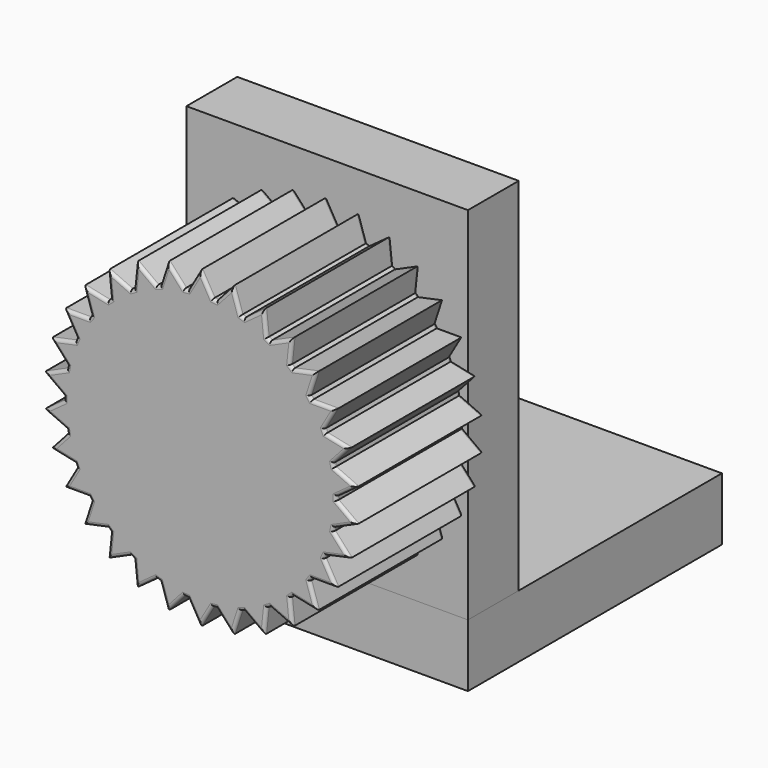
from build123d import *

# Parameters (mm, degrees)
F0_R     = 7.5
F1_DEPTH = 25
F2_DEPTH = 25
F3_R     = 0.5
F4_R     = 0.5
F5_W     = 44.334772
F5_H     = 9.879325
F6_DEPTH = 50
F5_H_2   = 56.810932
F5_R     = 7.5
F7_DEPTH = 10


with BuildPart() as f1:
    # F0 (on Front) → F1 (new body)
    with BuildSketch(Plane.XZ):
        Polygon((0, 24.73412), (-1.944524, 21.366106), (-2.540232, 21.303494), (-5.142513, 24.19362), (-6.344295, 20.494916), (-6.913967, 20.309818), (-10.060273, 22.595743), (-10.466789, 18.728), (-10.985529, 18.428505), (-14.538351, 20.010323), (-14.131835, 16.14258), (-14.57697, 15.741778), (-18.381033, 16.550357), (-17.179251, 12.851652), (-17.531328, 12.36706), (-21.420376, 12.36706), (-19.475852, 8.999046), (-19.719483, 8.451842), (-23.523546, 7.643263), (-20.921265, 4.753138), (-21.045802, 4.167238), (-24.598624, 2.58542), (-21.452318, 0.299495), (-21.452318, -0.299495), (-24.598624, -2.58542), (-21.045802, -4.167238), (-20.921265, -4.753138), (-23.523546, -7.643263), (-19.719483, -8.451842), (-19.475852, -8.999046), (-21.420376, -12.36706), (-17.531328, -12.36706), (-17.179251, -12.851652), (-18.381033, -16.550357), (-14.57697, -15.741778), (-14.131835, -16.14258), (-14.538351, -20.010323), (-10.985529, -18.428505), (-10.466789, -18.728), (-10.060273, -22.595743), (-6.913967, -20.309818), (-6.344295, -20.494916), (-5.142513, -24.19362), (-2.540232, -21.303494), (-1.944524, -21.366106), (0, -24.73412), (1.944524, -21.366106), (2.540232, -21.303494), (5.142513, -24.19362), (6.344295, -20.494916), (6.913967, -20.309818), (10.060273, -22.595743), (10.466789, -18.728), (10.985529, -18.428505), (14.538351, -20.010323), (14.131835, -16.14258), (14.57697, -15.741778), (18.381033, -16.550357), (17.179251, -12.851652), (17.531328, -12.36706), (21.420376, -12.36706), (19.475852, -8.999046), (19.719483, -8.451842), (23.523546, -7.643263), (20.921265, -4.753138), (21.045802, -4.167238), (24.598624, -2.58542), (21.452318, -0.299495), (21.452318, 0.299495), (24.598624, 2.58542), (21.045802, 4.167238), (20.921265, 4.753138), (23.523546, 7.643263), (19.719483, 8.451842), (19.475852, 8.999046), (21.420376, 12.36706), (17.531328, 12.36706), (17.179251, 12.851652), (18.381033, 16.550357), (14.57697, 15.741778), (14.131835, 16.14258), (14.538351, 20.010323), (10.985529, 18.428505), (10.466789, 18.728), (10.060273, 22.595743), (6.913967, 20.309818), (6.344295, 20.494916), (5.142513, 24.19362), (2.540232, 21.303494), (1.944524, 21.366106), align=None)
        Circle(F0_R, mode=Mode.SUBTRACT)
    extrude(amount=F1_DEPTH)

    # F0 (on Front) → F2 (join, symmetric)
    with BuildSketch(Plane.XZ):
        Circle(F0_R)
    extrude(amount=F2_DEPTH, both=True)

    # F3
    f3_edges = [f1.edges().sort_by_distance(p)[0] for p in [
        (20.448114, -25, 10.683053),
        (19.475852, -25, 12.36706),
        (17.35529, -25, 12.609356),
        (17.780142, -25, 14.701005),
        (16.479002, -25, 16.146067),
        (14.354403, -25, 15.942179),
        (14.335093, -25, 18.076452),
        (12.76194, -25, 19.219414),
        (10.726159, -25, 18.578252),
        (10.263531, -25, 20.661871),
        (8.48712, -25, 21.45278),
        (6.629131, -25, 20.402367),
        (5.743404, -25, 22.344268),
        (3.841372, -25, 22.748557),
        (2.242378, -25, 21.3348),
        (0.972262, -25, 23.050113),
        (-0.972262, -25, 23.050113),
        (-2.242378, -25, 21.3348),
        (-3.841372, -25, 22.748557),
        (-5.743404, -25, 22.344268),
        (-6.629131, -25, 20.402367),
        (-8.48712, -25, 21.45278),
        (-10.263531, -25, 20.661871),
        (-10.726159, -25, 18.578252),
        (-12.76194, -25, 19.219414),
        (-14.335093, -25, 18.076452),
        (-14.354403, -25, 15.942179),
        (-16.479002, -25, 16.146067),
        (-17.780142, -25, 14.701005),
        (-17.35529, -25, 12.609356),
        (-19.475852, -25, 12.36706),
        (-20.448114, -25, 10.683053),
        (-19.597668, -25, 8.725444),
        (-21.621515, -25, 8.047553),
        (-22.222406, -25, 6.198201),
        (-20.983533, -25, 4.460188),
        (-22.822213, -25, 3.376329),
        (-23.025471, -25, 1.442457),
        (-21.452318, -25, 0),
        (-23.025471, -25, -1.442457),
        (-22.822213, -25, -3.376329),
        (-20.983533, -25, -4.460188),
        (-22.222406, -25, -6.198201),
        (-21.621515, -25, -8.047553),
        (-19.597668, -25, -8.725444),
        (-20.448114, -25, -10.683053),
        (-19.475852, -25, -12.36706),
        (-17.35529, -25, -12.609356),
        (-17.780142, -25, -14.701005),
        (-16.479002, -25, -16.146067),
        (-14.354403, -25, -15.942179),
        (-14.335093, -25, -18.076452),
        (-12.76194, -25, -19.219414),
        (-10.726159, -25, -18.578252),
        (-10.263531, -25, -20.661871),
        (-8.48712, -25, -21.45278),
        (-6.629131, -25, -20.402367),
        (-5.743404, -25, -22.344268),
        (-3.841372, -25, -22.748557),
        (-2.242378, -25, -21.3348),
        (-0.972262, -25, -23.050113),
        (0.972262, -25, -23.050113),
        (2.242378, -25, -21.3348),
        (3.841372, -25, -22.748557),
        (5.743404, -25, -22.344268),
        (6.629131, -25, -20.402367),
        (8.48712, -25, -21.45278),
        (10.263531, -25, -20.661871),
        (10.726159, -25, -18.578252),
        (12.76194, -25, -19.219414),
        (14.335093, -25, -18.076452),
        (14.354403, -25, -15.942179),
        (16.479002, -25, -16.146067),
        (17.780142, -25, -14.701005),
        (17.35529, -25, -12.609356),
        (19.475852, -25, -12.36706),
        (20.448114, -25, -10.683053),
        (19.597668, -25, -8.725444),
        (21.621515, -25, -8.047553),
        (22.222406, -25, -6.198201),
        (20.983533, -25, -4.460188),
        (22.822213, -25, -3.376329),
        (23.025471, -25, -1.442457),
        (21.452318, -25, 0),
        (23.025471, -25, 1.442457),
        (22.822213, -25, 3.376329),
        (20.983533, -25, 4.460188),
        (22.222406, -25, 6.198201),
        (21.621515, -25, 8.047553),
        (19.597668, -25, 8.725444),
    ]]
    fillet(f3_edges, radius=F3_R)

    # F4
    f4_edges = [f1.edges().sort_by_distance(p)[0] for p in [
        (-10.263531, 0, 20.661871),
        (20.448114, 0, 10.683053),
        (19.475852, 0, 12.36706),
        (17.35529, 0, 12.609356),
        (17.780142, 0, 14.701005),
        (16.479002, 0, 16.146067),
        (14.354403, 0, 15.942179),
        (14.335093, 0, 18.076452),
        (12.76194, 0, 19.219414),
        (10.726159, 0, 18.578252),
        (10.263531, 0, 20.661871),
        (8.48712, 0, 21.45278),
        (6.629131, 0, 20.402367),
        (5.743404, 0, 22.344268),
        (3.841372, 0, 22.748557),
        (2.242378, 0, 21.3348),
        (0.972262, 0, 23.050113),
        (-0.972262, 0, 23.050113),
        (-2.242378, 0, 21.3348),
        (-3.841372, 0, 22.748557),
        (-5.743404, 0, 22.344268),
        (-6.629131, 0, 20.402367),
        (-8.48712, 0, 21.45278),
        (-10.726159, 0, 18.578252),
        (-12.76194, 0, 19.219414),
        (-14.335093, 0, 18.076452),
        (-14.354403, 0, 15.942179),
        (-16.479002, 0, 16.146067),
        (-17.780142, 0, 14.701005),
        (-17.35529, 0, 12.609356),
        (-19.475852, 0, 12.36706),
        (-20.448114, 0, 10.683053),
        (-19.597668, 0, 8.725444),
        (-21.621515, 0, 8.047553),
        (-22.222406, 0, 6.198201),
        (-20.983533, 0, 4.460188),
        (-22.822213, 0, 3.376329),
        (-23.025471, 0, 1.442457),
        (-21.452318, 0, 0),
        (-23.025471, 0, -1.442457),
        (-22.822213, 0, -3.376329),
        (-20.983533, 0, -4.460188),
        (-22.222406, 0, -6.198201),
        (-21.621515, 0, -8.047553),
        (-19.597668, 0, -8.725444),
        (-20.448114, 0, -10.683053),
        (-19.475852, 0, -12.36706),
        (-17.35529, 0, -12.609356),
        (-17.780142, 0, -14.701005),
        (-16.479002, 0, -16.146067),
        (-14.354403, 0, -15.942179),
        (-14.335093, 0, -18.076452),
        (-12.76194, 0, -19.219414),
        (-10.726159, 0, -18.578252),
        (-10.263531, 0, -20.661871),
        (-8.48712, 0, -21.45278),
        (-6.629131, 0, -20.402367),
        (-5.743404, 0, -22.344268),
        (-3.841372, 0, -22.748557),
        (-2.242378, 0, -21.3348),
        (-0.972262, 0, -23.050113),
        (0.972262, 0, -23.050113),
        (2.242378, 0, -21.3348),
        (3.841372, 0, -22.748557),
        (5.743404, 0, -22.344268),
        (6.629131, 0, -20.402367),
        (8.48712, 0, -21.45278),
        (10.263531, 0, -20.661871),
        (10.726159, 0, -18.578252),
        (12.76194, 0, -19.219414),
        (14.335093, 0, -18.076452),
        (14.354403, 0, -15.942179),
        (16.479002, 0, -16.146067),
        (17.780142, 0, -14.701005),
        (17.35529, 0, -12.609356),
        (19.475852, 0, -12.36706),
        (20.448114, 0, -10.683053),
        (19.597668, 0, -8.725444),
        (21.621515, 0, -8.047553),
        (22.222406, 0, -6.198201),
        (20.983533, 0, -4.460188),
        (22.822213, 0, -3.376329),
        (23.025471, 0, -1.442457),
        (21.452318, 0, 0),
        (23.025471, 0, 1.442457),
        (22.822213, 0, 3.376329),
        (20.983533, 0, 4.460188),
        (22.222406, 0, 6.198201),
        (21.621515, 0, 8.047553),
        (19.597668, 0, 8.725444),
        (-7.5, 0, 0),
    ]]
    fillet(f4_edges, radius=F4_R)


with BuildPart() as f6:
    # F5 (on Front) → F6 (new body)
    with BuildSketch(Plane.XZ):
        with Locations((0, -31.640418)):
            Rectangle(F5_W, F5_H)
    extrude(amount=-F6_DEPTH)


with BuildPart() as f7:
    # F5 (on Front) → F7 (new body)
    with BuildSketch(Plane.XZ):
        with Locations((0, 1.70471)):
            Rectangle(F5_W, F5_H_2)
        Circle(F5_R, mode=Mode.SUBTRACT)
    extrude(amount=-F7_DEPTH)


solid = Compound([f1.part, f6.part, f7.part])
